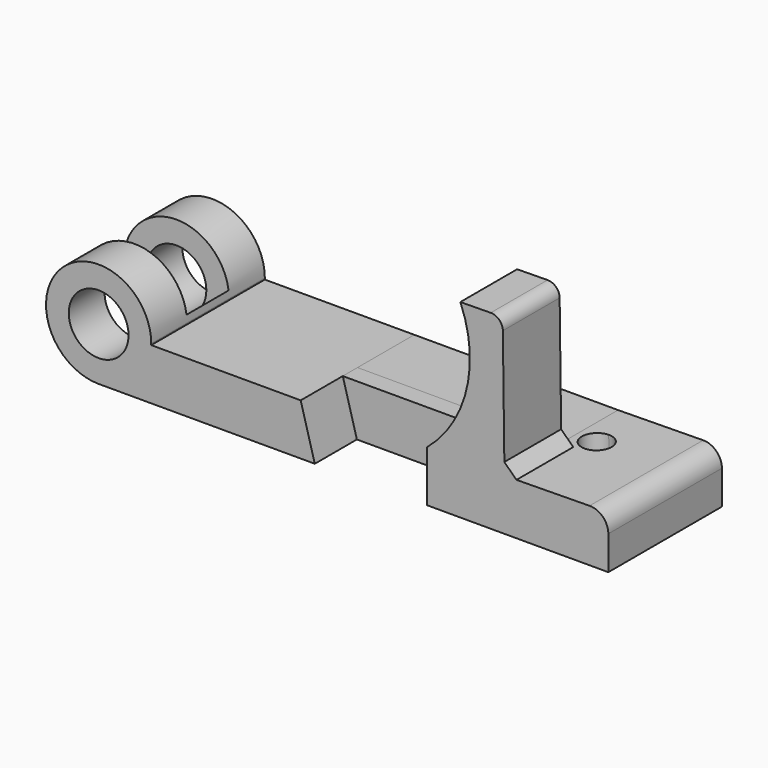
from build123d import *

# Parameters (mm, degrees)
F1_DEPTH = 30.1625
F2_DEPTH = 30.1625
F4_DEPTH = 80.772
F5_W     = 45.212
F5_H     = 91.9793769717
F6_DEPTH = 11.1633
F7_DEPTH = 30.1625
F8_DEPTH = 7.8105
F9_R     = 5.08
F10_R    = 7.874
F11_SIZE = 5.08


with BuildPart() as f1:
    # F0 (on Front) → F1 (new body, symmetric)
    with BuildSketch(Plane.XZ):
        with BuildLine():
            ThreePointArc((-69.4944, 22.352), (-107.6516507731, 38.1572507731), (-91.8464, 0))
            ThreePointArc((-91.8464, 0), (-76.245395903, 6.3451085102), (-69.5017704624, 21.7780358656))
            ThreePointArc((-69.5017704624, 21.7780358656), (-69.4962426916, 22.0649942722), (-69.4944, 22.352))
        make_face()
        with BuildLine():
            ThreePointArc((-79.1464, 22.352), (-82.8661438789, 13.3717438789), (-91.8464, 9.652))
            ThreePointArc((-91.8464, 9.652), (-100.8266561211, 31.3322561211), (-79.1464, 22.352))
        make_face(mode=Mode.SUBTRACT)
        with BuildLine():
            Line((-91.8464, 0), (0, 0))
            Line((0, 0), (-5.9944, 21.7780358656))
            Line((-5.9944, 21.7780358656), (-69.5017704624, 21.7780358656))
            ThreePointArc((-69.5017704624, 21.7780358656), (-76.245395903, 6.3451085102), (-91.8464, 0))
        make_face()
    extrude(amount=F1_DEPTH, both=True)

    # F5 (on face) → F6 (cut, symmetric)
    with BuildSketch(Plane.XZ):
        with Locations((-92.3035815358, 0)):
            Rectangle(F5_W, F5_H)
    extrude(amount=F6_DEPTH, both=True, mode=Mode.SUBTRACT)


with BuildPart() as f1b:
    # F0 (on Front) → F1, piece 2 (new body, symmetric)
    with BuildSketch(Plane.XZ):
        Polygon((47.752, 21.7780358656), (47.752, 0), (124.714, 0), (124.714, 22.352), (80.5979335705, 21.7780358656), align=None)
    extrude(amount=F1_DEPTH, both=True)

    # F0 (on Front) → F2 (join)
    with BuildSketch(Plane.XZ):
        with BuildLine():
            ThreePointArc((61.8345440238, 80.6159156896), (64.5073104258, 48.8719706275), (47.752, 21.7780358656))
            Line((47.752, 21.7780358656), (80.5979335705, 21.7780358656))
            Line((80.5979335705, 21.7780358656), (79.8293879764, 80.8500343649))
            Line((79.8293879764, 80.8500343649), (61.8345440238, 80.6159156896))
        make_face()
    extrude(amount=F2_DEPTH)

    # F3 (on face) → F4 (cut)
    with BuildSketch(Plane(origin=(-0.2696508837, 0, 20.7259227271), x_dir=(0.9999153765, 0, 0.0130092189), z_dir=(-0.0130092189, 0, 0.9999153765))):
        with BuildLine():
            ThreePointArc((96.0382283288, 7.8105), (94.1783563893, 12.3006280605), (89.6882283288, 14.1605))
            ThreePointArc((89.6882283288, 14.1605), (85.1981002683, 3.3203719395), (96.0382283288, 7.8105))
        make_face()
    extrude(amount=-F4_DEPTH, mode=Mode.SUBTRACT)

    # F9
    f9_edges = [f1b.edges().sort_by_distance(p)[0] for p in [
        (79.829388, -15.08125, 80.850034),
    ]]
    fillet(f9_edges, radius=F9_R)

    # F10
    f10_edges = [f1b.edges().sort_by_distance(p)[0] for p in [
        (124.714, 0, 22.352),
    ]]
    fillet(f10_edges, radius=F10_R)

    # F11
    f11_edges = [f1b.edges().sort_by_distance(p)[0] for p in [
        (80.597934, 15.08125, 21.778036),
        (80.597934, -15.08125, 21.778036),
    ]]
    chamfer(f11_edges, length=F11_SIZE)


with BuildPart() as f7:
    # F0 (on Front) → F7 (new body)
    with BuildSketch(Plane.XZ):
        Polygon((-5.9944, 21.7780358656), (0, 0), (47.752, 0), (47.752, 21.7780358656), align=None)
    extrude(amount=-F7_DEPTH)


with BuildPart() as f8:
    # F0 (on Front) → F8 (new body)
    with BuildSketch(Plane.XZ):
        Polygon((-5.9944, 21.7780358656), (0, 0), (47.752, 0), (47.752, 21.7780358656), align=None)
    extrude(amount=F8_DEPTH)


solid = Compound([f1.part, f1b.part, f7.part, f8.part])
